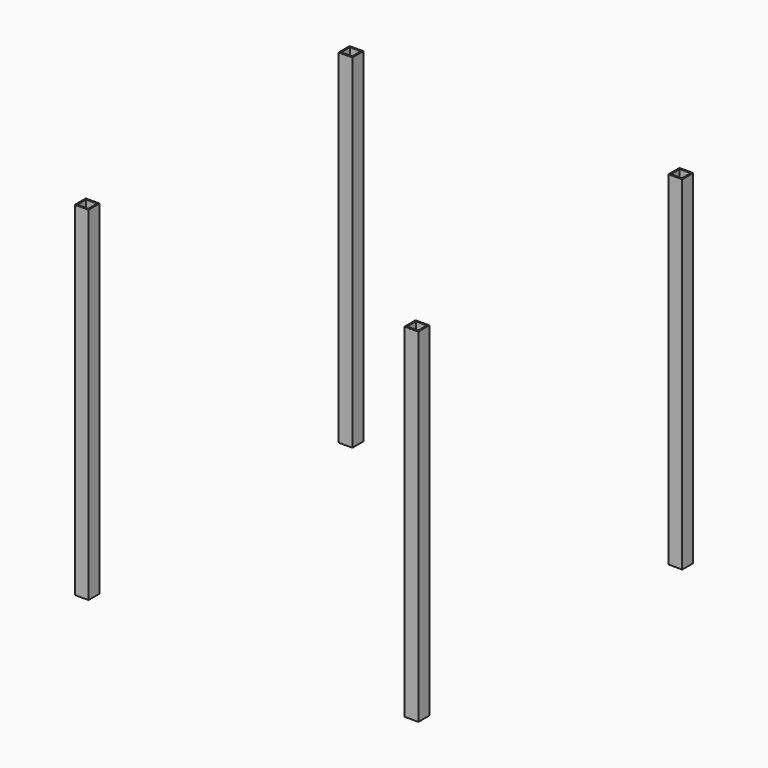
from build123d import *

# Parameters (mm, degrees)
F0_W     = 40
F0_H     = 40
F1_DEPTH = 1000
F2_T     = -4


with BuildPart() as f1:
    # F0 (on Top) → F1 (new body)
    with BuildSketch(Plane.XY):
        with Locations((-480, 480)):
            Rectangle(F0_W, F0_H)
    extrude(amount=F1_DEPTH)

    # F2
    f2_openings = [f1.faces().sort_by_distance(p)[0] for p in [
        (-480, 480, 1000),
        (-480, 480, 0),
    ]]
    offset(amount=F2_T, openings=f2_openings)


with BuildPart() as f3_1:
    # F3: instance of F1
    add(f1.part.mirror(Plane.YZ))


with BuildPart() as f4_1:
    # F4: instance of F1
    add(f1.part.mirror(Plane.XZ))


with BuildPart() as f4_2:
    # F4: instance of F3_1
    add(f3_1.part.mirror(Plane.XZ))


solid = Compound([f1.part, f3_1.part, f4_1.part, f4_2.part])
